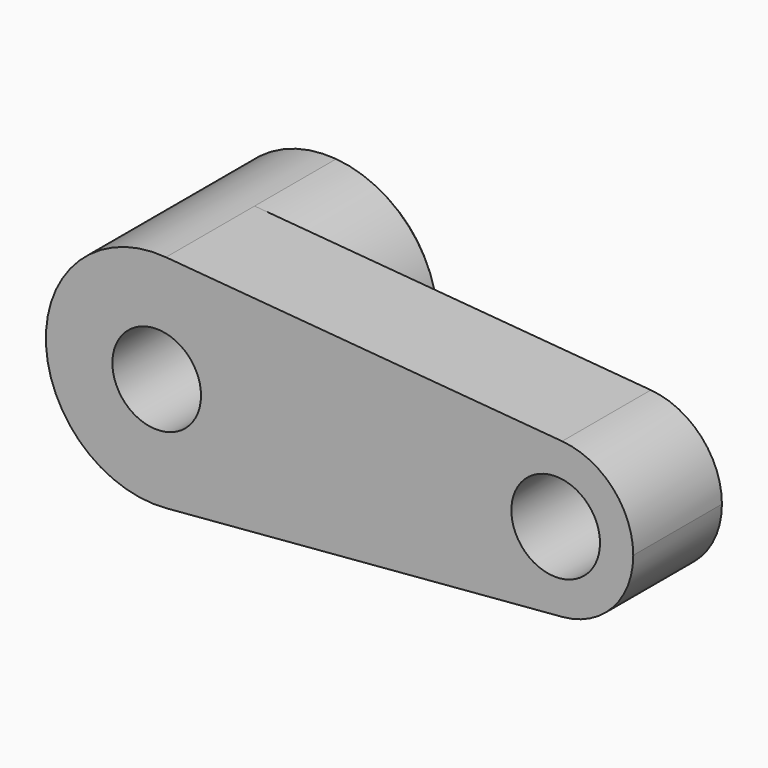
from build123d import *

# Parameters (mm, degrees)
F0_R          = 10
F1_DEPTH      = 25
F2_DEPTH      = 25
F2_DEPTH_BACK = 25
F3_SIZE       = 2


with BuildPart() as f1:
    # F0 (on Front) → F1 (new body)
    with BuildSketch(Plane.XZ):
        with BuildLine():
            ThreePointArc((2.083333, -24.913043), (18.399502, -16.92508), (25, 0))
            ThreePointArc((25, 0), (18.399502, 16.92508), (2.083333, 24.913043))
            ThreePointArc((2.083333, 24.913043), (-25, 0), (2.083333, -24.913043))
        make_face()
        Circle(F0_R, mode=Mode.SUBTRACT)
        with BuildLine():
            ThreePointArc((2.083333, 24.913043), (18.399502, 16.92508), (25, 0))
            ThreePointArc((25, 0), (18.399502, -16.92508), (2.083333, -24.913043))
            Line((2.083333, -24.913043), (91.458333, -17.43913))
            ThreePointArc((91.458333, -17.43913), (72.5, 0), (91.458333, 17.43913))
            Line((91.458333, 17.43913), (2.083333, 24.913043))
        make_face()
        with BuildLine():
            ThreePointArc((107.5, 0), (102.879651, 11.847556), (91.458333, 17.43913))
            ThreePointArc((91.458333, 17.43913), (72.5, 0), (91.458333, -17.43913))
            ThreePointArc((91.458333, -17.43913), (102.879651, -11.847556), (107.5, 0))
        make_face()
        with Locations((90, 0)):
            Circle(F0_R, mode=Mode.SUBTRACT)
    extrude(amount=F1_DEPTH)

    # F0 (on Front) → F2 (join, two sides)
    with BuildSketch(Plane.XZ) as f2_sk:
        with BuildLine():
            ThreePointArc((2.083333, -24.913043), (18.399502, -16.92508), (25, 0))
            ThreePointArc((25, 0), (18.399502, 16.92508), (2.083333, 24.913043))
            ThreePointArc((2.083333, 24.913043), (-25, 0), (2.083333, -24.913043))
        make_face()
        Circle(F0_R, mode=Mode.SUBTRACT)
    extrude(amount=F2_DEPTH)
    extrude(f2_sk.sketch, amount=-F2_DEPTH_BACK)

    # F3
    f3_edges = [f1.edges().sort_by_distance(p)[0] for p in [
        (80, 0, 0),
        (-2.083333, 25, 24.913043),
        (-10, 25, 0),
    ]]
    chamfer(f3_edges, length=F3_SIZE)


solid = f1.part
